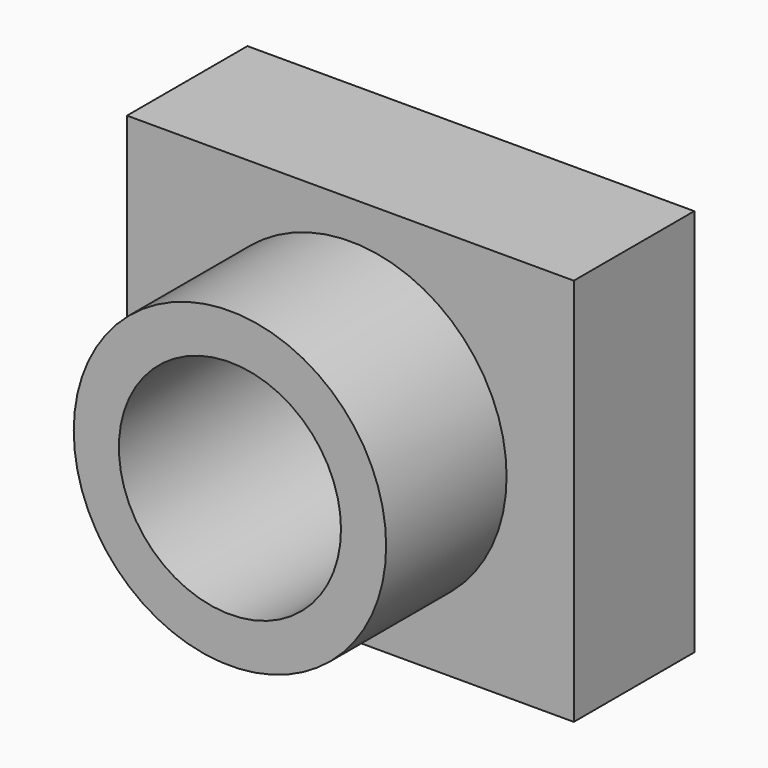
from build123d import *

# Parameters (mm, degrees)
F0_W     = 75.369708
F0_H     = 65.526642
F1_DEPTH = 25.4
F2_R     = 26.349112
F3_DEPTH = 25.4
F4_R     = 18.733501
F5_DEPTH = 25.401
F6_DEPTH = 25.401


with BuildPart() as f1:
    # F0 (on Front) → F1 (new body)
    with BuildSketch(Plane.XZ):
        Rectangle(F0_W, F0_H)
    extrude(amount=-F1_DEPTH)

    # F2 (on Front) → F3 (join)
    with BuildSketch(Plane.XZ):
        Circle(F2_R)
    extrude(amount=F3_DEPTH)

    # F4 (on Front) → F5 (cut, through all)
    with BuildSketch(Plane.XZ):
        Circle(F4_R)
    extrude(amount=F5_DEPTH, mode=Mode.SUBTRACT)

    # F4 (on Front) → F6 (cut, through all)
    with BuildSketch(Plane.XZ):
        Circle(F4_R)
    extrude(amount=-F6_DEPTH, mode=Mode.SUBTRACT)


solid = f1.part
